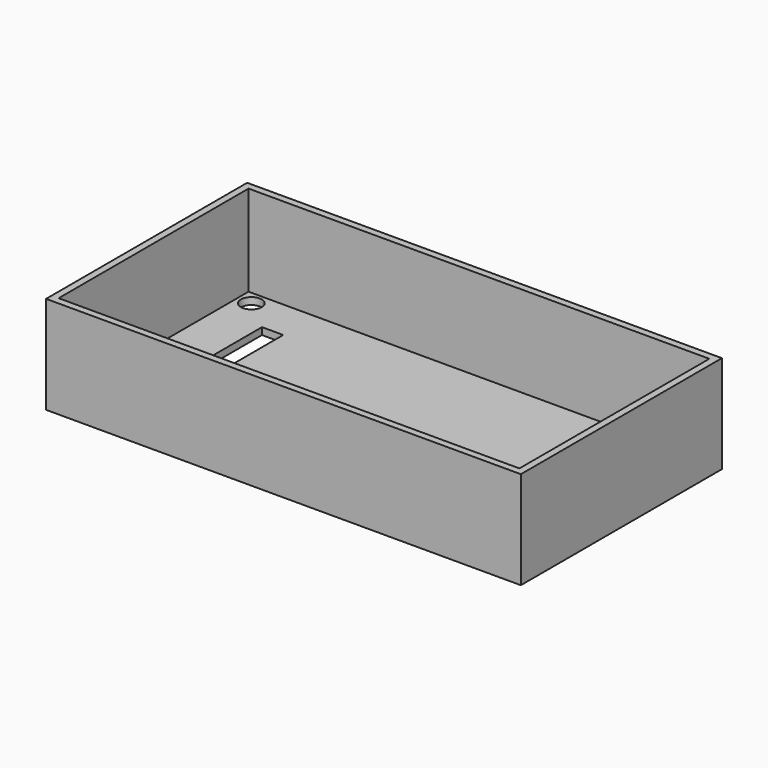
from build123d import *

# Parameters (mm, degrees)
SKETCH049_W     = 68
SKETCH049_H     = 36
SKETCH049_W_2   = 3.04
SKETCH049_H_2   = 13.335
PAD032_DEPTH    = 1
SKETCH050_W     = 68
SKETCH050_H     = 36
SKETCH050_W_2   = 66
SKETCH050_H_2   = 34
PAD033_DEPTH    = 13
SKETCH053_R     = 1.5
POCKET009_DEPTH = 1.001


with BuildPart() as part:
    # Sketch049 → Pad032 (new body)
    with BuildSketch(Plane.XY):
        Rectangle(SKETCH049_W, SKETCH049_H)
        with Locations((-24.94, 4.5625)):
            Rectangle(SKETCH049_W_2, SKETCH049_H_2, mode=Mode.SUBTRACT)
    extrude(amount=PAD032_DEPTH)

    # Sketch050 (on Face10 of Pad032) → Pad033 (join)
    with BuildSketch(Plane.XY.offset(1)):
        Rectangle(SKETCH050_W, SKETCH050_H)
        Rectangle(SKETCH050_W_2, SKETCH050_H_2, mode=Mode.SUBTRACT)
    extrude(amount=PAD033_DEPTH)

    # Sketch053 (on Face15 of Pad033) → Pocket009 (cut, through all)
    with BuildSketch(Plane.XY.offset(1)):
        with Locations((-31, 15)):
            Circle(SKETCH053_R)
        with Locations((31, 15)):
            Circle(SKETCH053_R)
        with Locations((31, -15)):
            Circle(SKETCH053_R)
        with Locations((-31, -15)):
            Circle(SKETCH053_R)
    extrude(amount=-POCKET009_DEPTH, mode=Mode.SUBTRACT)


solid = part.part
